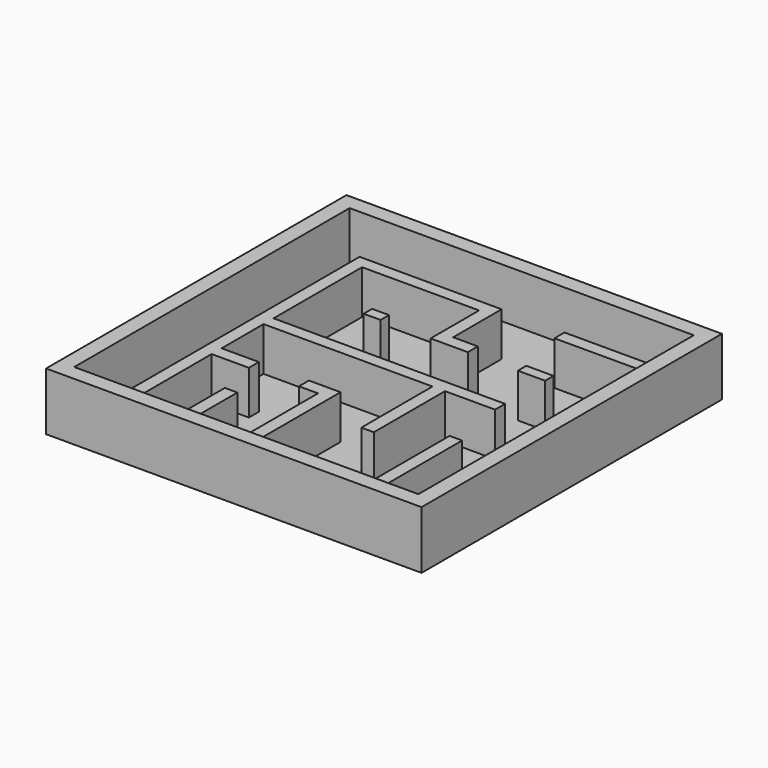
from build123d import *

# Parameters (mm, degrees)
F0_W     = 38.1
F0_H     = 38.1
F1_DEPTH = 0.79375
F2_W     = 38.1
F2_H     = 38.1
F2_W_2   = 34.925
F2_H_2   = 34.925
F3_DEPTH = 5.08
F4_W     = 9.0528408943
F4_H     = 1.27
F5_DEPTH = 4.445
F4_W_2   = 1.27
F4_H_2   = 10.3092815826
F4_R     = 1.27
F4_W_3   = 2.7661539333
F4_H_3   = 1.0710589232
F4_H_4   = 5.6106120447
F4_W_4   = 1.712341144
F6_DEPTH = 4.445
F7_DEPTH = 4.445
F8_DEPTH = 0.396875


with BuildPart() as f1:
    # F0 (on Top) → F1 (new body)
    with BuildSketch(Plane.XY):
        with Locations((0.4642736167, -0.8399097333)):
            Rectangle(F0_W, F0_H)
    extrude(amount=F1_DEPTH)

    # F2 (on face) → F3 (join)
    with BuildSketch(Plane.XY.offset(0.79375)):
        with Locations((0.4642736167, -0.8399097333)):
            Rectangle(F2_W, F2_H)
        with Locations((0.4642736167, -0.8399097333)):
            Rectangle(F2_W_2, F2_H_2, mode=Mode.SUBTRACT)
    extrude(amount=F3_DEPTH)

    # F4 (on face) → F5 (join)
    with BuildSketch(Plane.XY.offset(0.79375)):
        Polygon((-11.9182263833, 11.5425902667), (-11.9182263833, -18.3024097333), (-10.6482263833, -18.3024097333), (-10.6482263833, -8.8111795485), (-6.8751736544, -8.8111795485), (-6.8751736544, -7.5411795485), (-10.6482263833, -7.5411795485), (-10.6482263833, -2.2284686565), (6.4967736167, -2.2284686565), (6.4967736167, -11.2619977444), (7.7667736167, -11.2619977444), (7.7667736167, -2.2284686565), (12.8467736167, -2.2284686565), (12.8467736167, -0.9584686565), (-10.6482263833, -0.9584686565), (-10.6482263833, 10.2725902667), (1.2241147607, 10.2725902667), (1.2241147607, 4.1215313435), (2.4941147607, 4.1215313435), (5.0006196834, 4.1215313435), (5.0006196834, 5.3915313435), (2.4941147607, 5.3915313435), (2.4941147607, 10.2725902667), (2.4941147607, 11.5425902667), (-10.6482263833, 11.5425902667), align=None)
        with Locations((13.4003531695, 10.9075902667)):
            Rectangle(F4_W, F4_H)
    extrude(amount=F5_DEPTH)

    # F4 (on face) → F6 (join)
    with BuildSketch(Plane.XY.offset(0.79375)):
        Polygon((-11.9182263833, 11.5425902667), (-11.9182263833, -18.3024097333), (-10.6482263833, -18.3024097333), (-10.6482263833, -8.8111795485), (-6.8751736544, -8.8111795485), (-6.8751736544, -7.5411795485), (-10.6482263833, -7.5411795485), (-10.6482263833, -2.2284686565), (6.4967736167, -2.2284686565), (6.4967736167, -11.2619977444), (7.7667736167, -11.2619977444), (7.7667736167, -2.2284686565), (12.8467736167, -2.2284686565), (12.8467736167, -0.9584686565), (-10.6482263833, -0.9584686565), (-10.6482263833, 10.2725902667), (1.2241147607, 10.2725902667), (1.2241147607, 4.1215313435), (2.4941147607, 4.1215313435), (5.0006196834, 4.1215313435), (5.0006196834, 5.3915313435), (2.4941147607, 5.3915313435), (2.4941147607, 10.2725902667), (2.4941147607, 11.5425902667), (-10.6482263833, 11.5425902667), align=None)
        with Locations((13.4003531695, 10.9075902667)):
            Rectangle(F4_W, F4_H)
        with Locations((13.4817736167, -13.147768942)):
            Rectangle(F4_W_2, F4_H_2)
        with Locations((-14.4582263833, -16.0732418299)):
            Circle(F4_R)
        with Locations((11.46369665, 4.6570608051)):
            Rectangle(F4_W_3, F4_H_3)
        with Locations((-5.5682263833, -15.497103711)):
            Rectangle(F4_W_2, F4_H_4)
        Polygon((0.1467736167, -18.3024097333), (1.4167736167, -18.3024097333), (1.4167736167, -7.5411795485), (0.1467736167, -7.5411795485), (-1.7951736544, -7.5411795485), (-1.7951736544, -8.8111795485), (0.1467736167, -8.8111795485), align=None)
        with Locations((-4.7120558113, 4.6570608051)):
            Rectangle(F4_W_4, F4_H_3)
        with Locations((-2.3637847044, -15.662971884)):
            Circle(F4_R)
    extrude(amount=F6_DEPTH)

    # F7 (cut): faces of the model
    f7_faces = [f1.faces().sort_by_distance(p)[0] for p in [
        (-14.4582263833, -16.0732418299, 5.23875),
        (-2.3637847044, -15.662971884, 5.23875),
    ]]
    extrude(f7_faces, amount=-F7_DEPTH, mode=Mode.SUBTRACT)

    # F4 (on face) → F8 (cut)
    with BuildSketch(Plane.XY.offset(0.79375)):
        with Locations((-14.4582263833, -16.0732418299)):
            Circle(F4_R)
        with Locations((-2.3637847044, -15.662971884)):
            Circle(F4_R)
    extrude(amount=-F8_DEPTH, mode=Mode.SUBTRACT)


solid = f1.part
